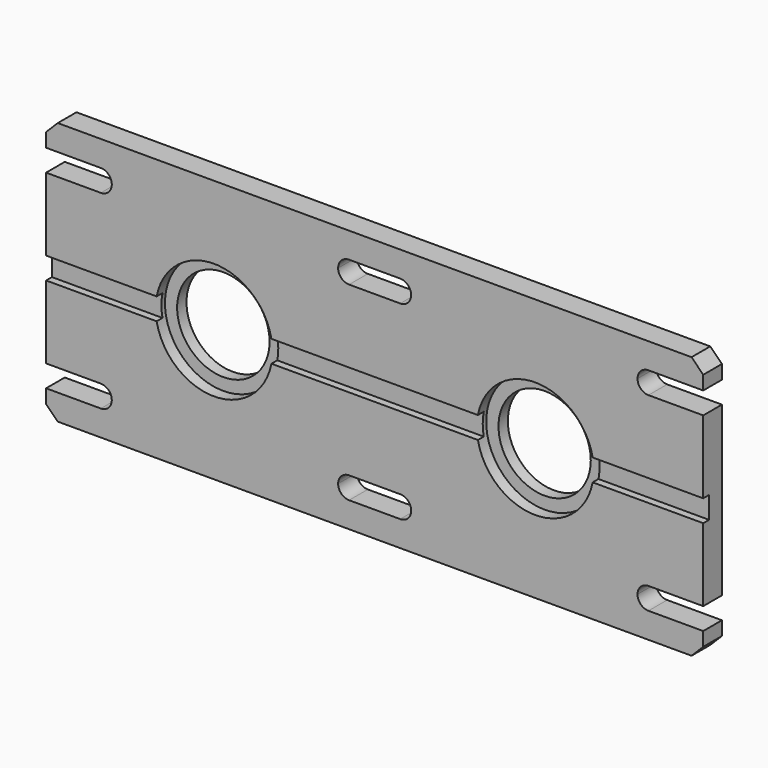
from build123d import *

# Parameters (mm, degrees)
F0_W      = 450
F0_H      = 180
F1_DEPTH  = 16
F2_SIZE   = 8
F3_R      = 31.6
F3_R_2    = 31.65
F4_DEPTH  = 16.001
F6_DEPTH  = 16.001
F7_R      = 40
F7_R_2    = 31.65
F8_DEPTH  = 8
F9_R      = 40
F10_DEPTH = 8
F11_W     = 10
F11_H     = 15
F12_DEPTH = 450.001


with BuildPart() as f1:
    # F0 (on Front) → F1 (new body)
    with BuildSketch(Plane.XZ):
        with Locations((225, 90)):
            Rectangle(F0_W, F0_H)
    extrude(amount=F1_DEPTH)

    # F2
    f2_edges = [f1.edges().sort_by_distance(p)[0] for p in [
        (450, -8, 180),
        (450, -8, 0),
        (0, -8, 180),
        (0, -8, 0),
    ]]
    chamfer(f2_edges, length=F2_SIZE)

    # F3 (on face) → F4 (cut, through all)
    with BuildSketch(Plane.XZ.offset(16)):
        with Locations((335, 90)):
            Circle(F3_R)
        with Locations((115, 90)):
            Circle(F3_R_2)
    extrude(amount=-F4_DEPTH, mode=Mode.SUBTRACT)

    # F5 (on face) → F6 (cut, through all)
    with BuildSketch(Plane.XZ.offset(16)):
        with BuildLine():
            Line((207.5, 147.5), (242.5, 147.5))
            ThreePointArc((242.5, 147.5), (247.803301, 149.696699), (250, 155))
            ThreePointArc((250, 155), (247.803301, 160.303301), (242.5, 162.5))
            Line((242.5, 162.5), (207.5, 162.5))
            ThreePointArc((207.5, 162.5), (202.196699, 160.303301), (200, 155))
            ThreePointArc((200, 155), (202.196699, 149.696699), (207.5, 147.5))
        make_face()
        with BuildLine():
            Line((-68.917155, 147.5), (37.5, 147.5))
            ThreePointArc((37.5, 147.5), (42.803301, 149.696699), (45, 155))
            ThreePointArc((45, 155), (42.803301, 160.303301), (37.5, 162.5))
            Line((37.5, 162.5), (-68.917155, 162.5))
            Line((-68.917155, 162.5), (-68.917155, 147.5))
        make_face()
        with BuildLine():
            Line((455.818099, 147.5), (455.818099, 162.5))
            Line((455.818099, 162.5), (412.5, 162.5))
            ThreePointArc((412.5, 162.5), (407.196699, 160.303301), (405, 155))
            ThreePointArc((405, 155), (407.196699, 149.696699), (412.5, 147.5))
            Line((412.5, 147.5), (455.818099, 147.5))
        make_face()
        with BuildLine():
            ThreePointArc((207.5, 32.5), (202.196699, 30.303301), (200, 25))
            ThreePointArc((200, 25), (202.196699, 19.696699), (207.5, 17.5))
            Line((207.5, 17.5), (242.5, 17.5))
            ThreePointArc((242.5, 17.5), (247.803301, 19.696699), (250, 25))
            ThreePointArc((250, 25), (247.803301, 30.303301), (242.5, 32.5))
            Line((242.5, 32.5), (207.5, 32.5))
        make_face()
        with BuildLine():
            ThreePointArc((412.5, 32.5), (407.196699, 30.303301), (405, 25))
            ThreePointArc((405, 25), (407.196699, 19.696699), (412.5, 17.5))
            Line((412.5, 17.5), (455.818099, 17.5))
            Line((455.818099, 17.5), (455.818099, 32.5))
            Line((455.818099, 32.5), (412.5, 32.5))
        make_face()
        with BuildLine():
            ThreePointArc((37.5, 17.5), (42.803301, 19.696699), (45, 25))
            ThreePointArc((45, 25), (42.803301, 30.303301), (37.5, 32.5))
            Line((37.5, 32.5), (-68.917155, 32.5))
            Line((-68.917155, 32.5), (-68.917155, 17.5))
            Line((-68.917155, 17.5), (37.5, 17.5))
        make_face()
    extrude(amount=-F6_DEPTH, mode=Mode.SUBTRACT)

    # F7 (on face) → F8 (cut)
    with BuildSketch(Plane.XZ.offset(16)):
        with Locations((115, 90)):
            Circle(F7_R)
        with Locations((115, 90)):
            Circle(F7_R_2, mode=Mode.SUBTRACT)
    extrude(amount=-F8_DEPTH, mode=Mode.SUBTRACT)

    # F9 (on face) → F10 (cut)
    with BuildSketch(Plane.XZ.offset(16)):
        with Locations((335, 90)):
            Circle(F9_R)
    extrude(amount=-F10_DEPTH, mode=Mode.SUBTRACT)

    # F11 (on face) → F12 (cut, through all)
    with BuildSketch(Plane(origin=(0, 0, 0), x_dir=(0, -1, 0), z_dir=(-1, 0, 0))):
        with Locations((16, 90)):
            Rectangle(F11_W, F11_H)
    extrude(amount=-F12_DEPTH, mode=Mode.SUBTRACT)


solid = f1.part
